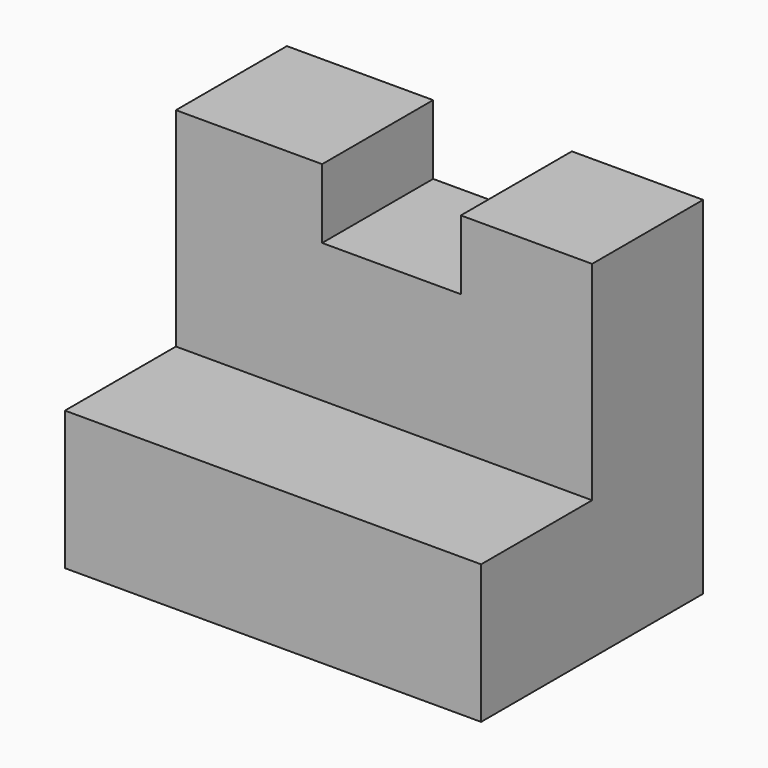
from build123d import *

# Parameters (mm, degrees)
F0_W     = 12.7
F0_H     = 19.05
F1_DEPTH = 38.1
F2_W     = 12.7
F2_H     = 6.35
F3_DEPTH = 12.7


with BuildPart() as f1:
    # F0 (on Right) → F1 (new body)
    with BuildSketch(Plane.YZ):
        Polygon((-12.7, 9.974598), (-25.4, 9.974598), (-25.4, -2.725402), (0, -2.725402), (0, 9.974598), align=None)
        with Locations((-6.35, 19.499598)):
            Rectangle(F0_W, F0_H)
    extrude(amount=F1_DEPTH)

    # F2 (on Front) → F3 (cut)
    with BuildSketch(Plane.XZ):
        with Locations((19.73599, 25.849598)):
            Rectangle(F2_W, F2_H)
    extrude(amount=F3_DEPTH, mode=Mode.SUBTRACT)


solid = f1.part
